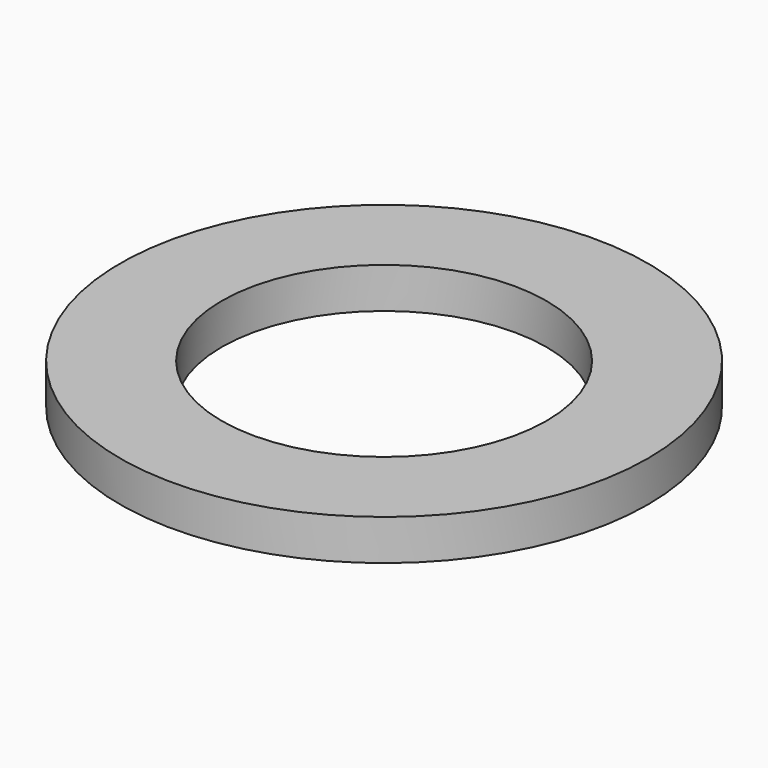
from build123d import *

# Parameters (mm, degrees)
CYLINDER007_R     = 0.4
CYLINDER007_DEPTH = 0.1
CYLINDER006_R     = 0.65
CYLINDER006_DEPTH = 0.1


with BuildPart() as cylinder007:
    # Cylinder007 → Cylinder007 (new body)
    with BuildSketch(Plane.XY.offset(1.62)):
        Circle(CYLINDER007_R)
    extrude(amount=CYLINDER007_DEPTH)


with BuildPart() as cut012:
    # Cylinder006 → Cylinder006 (new body)
    with BuildSketch(Plane.XY.offset(1.62)):
        Circle(CYLINDER006_R)
    extrude(amount=CYLINDER006_DEPTH)

    # Cut012: cut Cylinder007
    add(cylinder007.part, mode=Mode.SUBTRACT)


with BuildPart() as cut012_1:
    # Cut012 placement: moved
    add(cut012.part.moved(Location((18.88, 12.7, 0))))


solid = cut012_1.part
